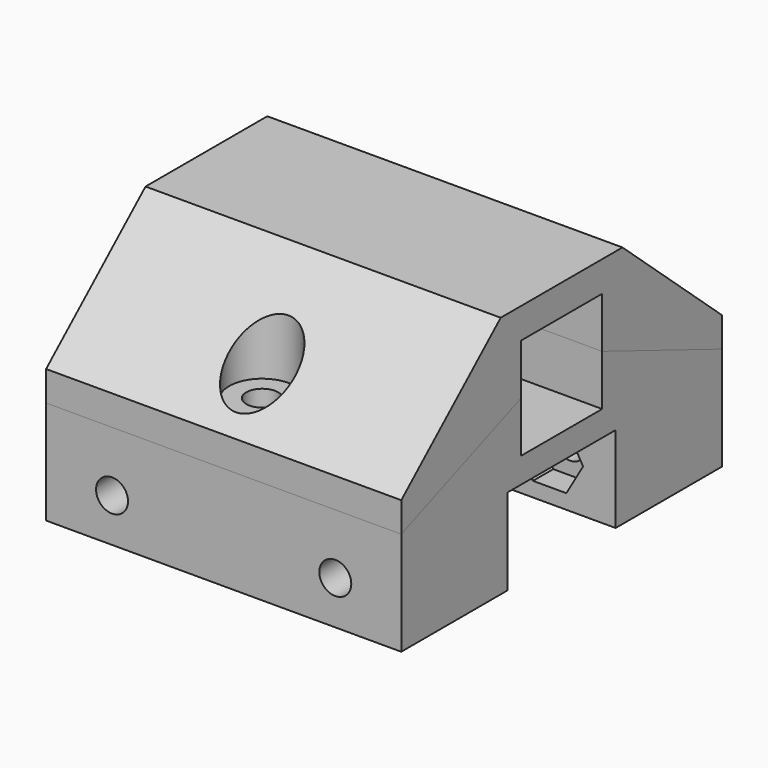
from build123d import *

# Parameters (mm, degrees)
F2_DEPTH          = 17.5
F3_DEPTH          = 17.5
F5_D              = 3.15
F5_DEPTH          = 19.751
F6_D              = 3.15
F7_DEPTH          = 9.1585
F12_D             = 3.15
F12_START         = 16.5214286
F12_CBORE_D       = 6.5
F12_CBORE_DEPTH   = 0.1
F12_2_D           = 3.15
F12_2_START       = 16.5214286
F12_2_CBORE_D     = 6.5
F12_2_CBORE_DEPTH = 0.1
F15_DEPTH         = 3.5


with BuildPart() as f2:
    # F1 (on Right) → F2 (new body, symmetric)
    with BuildSketch(Plane.YZ):
        Polygon((-5, -5), (-5, 0), (-19.75, -5.8), (-19.75, -16), (-6.6586033699, -16), (-6.6586033699, -7.5), (0, -7.5), (0, -5), align=None)
        Polygon((5, -5), (0, -5), (0, -7.5), (6.6586033699, -7.5), (6.6586033699, -16), (19.75, -16), (19.75, -5.8), (5, 0), align=None)
    extrude(amount=F2_DEPTH, both=True)

    # F5 (through all, one way)
    with BuildSketch(Plane(origin=(0, 0, 0), x_dir=(1, 0, 0), z_dir=(0, 1, 0))):
        with Locations((-11, 11.7075736617), (11, 11.7075736617)):
            Circle(F5_D / 2)
    extrude(amount=-F5_DEPTH, mode=Mode.SUBTRACT)

    # F6 (through all)
    with Locations(Plane.XZ):
        with Locations((-11, -11.7075736617), (11, -11.7075736617)):
            Hole(F6_D / 2)


with BuildPart() as f3:
    # F0 (on Right) → F3 (new body, symmetric)
    with BuildSketch(Plane.YZ):
        Polygon((-5, 5), (0, 5), (5, 5), (5, 0), (19.75, -5.85), (19.75, -2.85), (7.5, 8), (0, 8), (-7.5, 8), (-19.75, -2.85), (-19.75, -5.85), (-5, 0), align=None)
    extrude(amount=F3_DEPTH, both=True)

    # F12#2 (through all)
    # its depths count from where the whole tool has entered the part; down to there all is cleared
    with Locations(Plane.XY.offset(15).offset(-F12_2_START)):
        with Locations((0, 15), (0, -15)):
            CounterBoreHole(F12_2_D / 2, F12_2_CBORE_D / 2, F12_2_CBORE_DEPTH)


with BuildPart() as f7:
    # F4 (on Front) → F7 (new body, symmetric)
    with BuildSketch(Plane.XZ):
        Polygon((9.3545517328, -8.8575736617), (7.7091034656, -11.7075736617), (9.3545517328, -14.5575736617), (12.6454482672, -14.5575736617), (14.2908965344, -11.7075736617), (12.6454482672, -8.8575736617), align=None)
    extrude(amount=F7_DEPTH, both=True)


with BuildPart() as f7b:
    # F4 (on Front) → F7, piece 2 (new body, symmetric)
    with BuildSketch(Plane.XZ):
        Polygon((-9.3545517328, -14.5575736617), (-7.7091034656, -11.7075736617), (-9.3545517328, -8.8575736617), (-12.6454482672, -8.8575736617), (-14.2908965344, -11.7075736617), (-12.6454482672, -14.5575736617), align=None)
    extrude(amount=F7_DEPTH, both=True)


with BuildPart() as f2_1:
    add(f2.part)

    # F8: cut F7
    add(f7.part, mode=Mode.SUBTRACT)

    # F9: cut F7b
    add(f7b.part, mode=Mode.SUBTRACT)

    # F12 (through all)
    # its depths count from where the whole tool has entered the part; down to there all is cleared
    with Locations(Plane.XY.offset(15).offset(-F12_START)):
        with Locations((0, 15), (0, -15)):
            CounterBoreHole(F12_D / 2, F12_CBORE_D / 2, F12_CBORE_DEPTH)


with BuildPart() as f15:
    # F14 (on offset) → F15 (new body)
    with BuildSketch(Plane.XY.offset(-17.05)):
        Polygon((3.2908965344, -15), (1.6454482672, -12.15), (-1.6454482672, -12.15), (-3.2908965344, -15), (-1.6454482672, -17.85), (1.6454482672, -17.85), align=None)
    extrude(amount=F15_DEPTH)


with BuildPart() as f15b:
    # F14 (on offset) → F15, piece 2 (new body)
    with BuildSketch(Plane.XY.offset(-17.05)):
        Polygon((3.2908965344, 15), (1.6454482672, 17.85), (-1.6454482672, 17.85), (-3.2908965344, 15), (-1.6454482672, 12.15), (1.6454482672, 12.15), align=None)
    extrude(amount=F15_DEPTH)


with BuildPart() as f2_2:
    add(f2_1.part)

    # F16: cut F15
    add(f15.part, mode=Mode.SUBTRACT)

    # F17: cut F15b
    add(f15b.part, mode=Mode.SUBTRACT)


solid = Compound([f3.part, f2_2.part])
